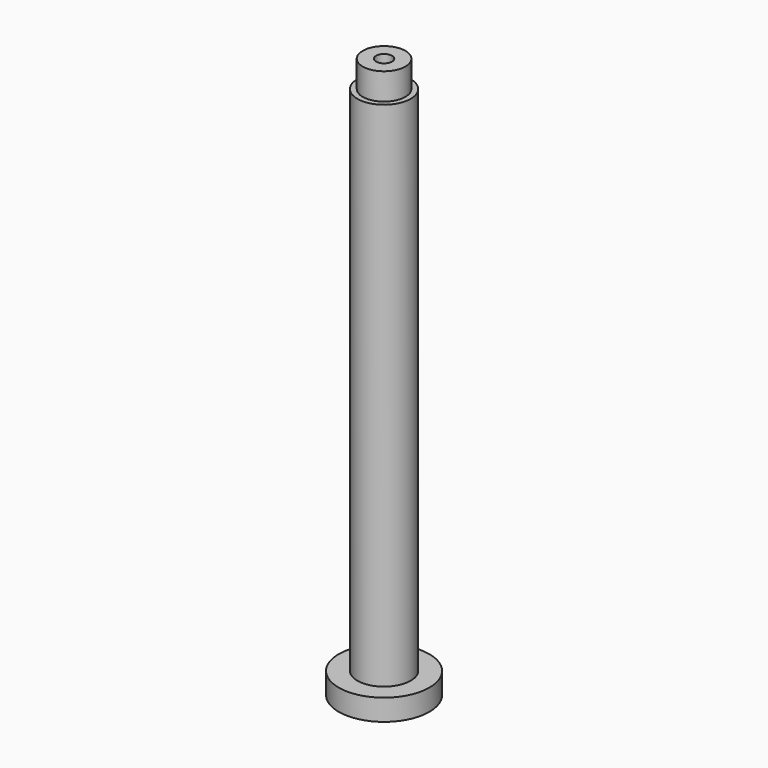
from build123d import *

# Parameters (mm, degrees)
F0_R     = 8.5
F1_DEPTH = 4
F2_R     = 5
F3_DEPTH = 100
F4_W     = 4
F4_H     = 5
F6_R     = 3.5
F7_DEPTH = 2
F8_R     = 1.5
F9_DEPTH = 118.6


with BuildPart() as f1:
    # F0 (on Top) → F1 (new body)
    with BuildSketch(Plane.XY):
        Circle(F0_R)
    extrude(amount=F1_DEPTH)

    # F2 (on Top) → F3 (join)
    with BuildSketch(Plane.XY):
        Circle(F2_R)
    extrude(amount=F3_DEPTH)

    # F4 (on Right) → F5 (revolve)
    with BuildSketch(Plane.YZ):
        with Locations((2, 102.5)):
            Rectangle(F4_W, F4_H)
    revolve(axis=Axis((0, 0, 102.5), (0, 0, -1)))

    # F6 (on face) → F7 (cut)
    with BuildSketch(Plane(origin=(0, 0, 0), x_dir=(1, 0, 0), z_dir=(0, 0, -1))):
        Circle(F6_R)
    extrude(amount=-F7_DEPTH, mode=Mode.SUBTRACT)

    # F8 (on face) → F9 (cut)
    with BuildSketch(Plane.XY.offset(105)):
        Circle(F8_R)
    extrude(amount=-F9_DEPTH, mode=Mode.SUBTRACT)


solid = f1.part
